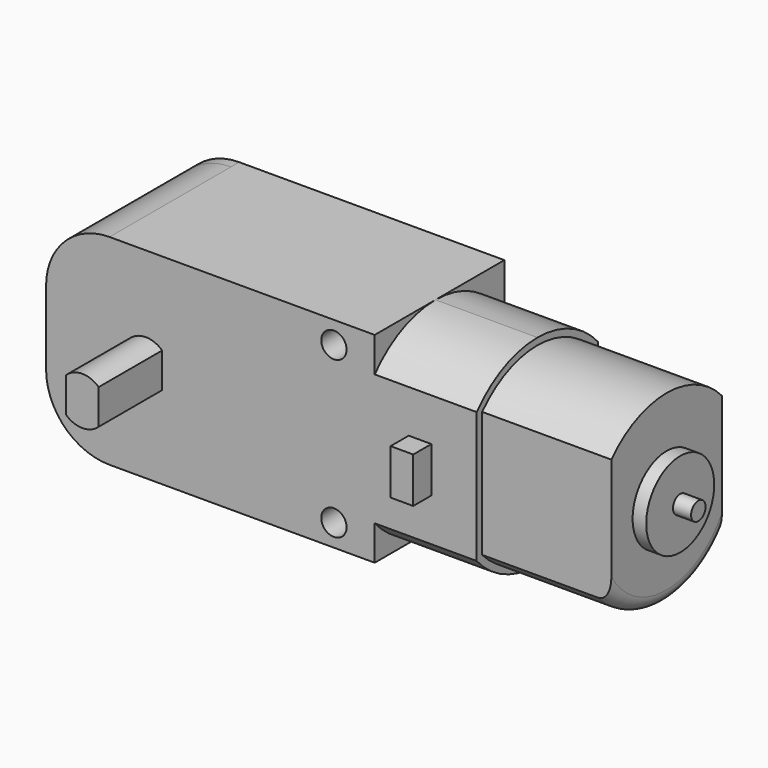
from build123d import *

# Parameters (mm, degrees)
F0_W      = 36.83
F0_H      = 17.018
F1_DEPTH  = 22.479
F2_R      = 7.112
F1_FACE_W = 17.018
F1_FACE_H = 8.255
F4_DEPTH  = 27.432
F6_DEPTH  = 16.002
F7_R      = 12.816169
F7_R_2    = 4.7625
F8_DEPTH  = 1.524
F9_R      = 1.524
F10_R     = 1.016
F11_DEPTH = 2.032
F12_W     = 2.54
F12_H     = 5.08
F13_DEPTH = 2.54
F15_DEPTH = 1.143
F16_W     = 2.54
F16_H     = 5.08
F17_DEPTH = 2.54
F19_DEPTH = 8.89
F21_DEPTH = 8.89
F22_R     = 1.324614
F23_DEPTH = 1.9558
F24_R     = 1.419753
F25_DEPTH = 25.4


with BuildPart() as f1:
    # F0 (on Top) → F1 (new body)
    with BuildSketch(Plane.XY):
        with Locations((0, -0.762)):
            Rectangle(F0_W, F0_H)
    extrude(amount=F1_DEPTH)

    # F2
    f2_edges = [f1.edges().sort_by_distance(p)[0] for p in [
        (-18.415, -0.762, 22.479),
        (-18.415, -0.762, 0),
    ]]
    fillet(f2_edges, radius=F2_R)

    # F3 (on face) + F1_face (on face) → F4 (join)
    with BuildSketch(Plane.YZ.offset(18.415)):
        with BuildLine():
            Line((-9.271, 18.582747), (-9.271, 3.896253))
            ThreePointArc((-9.271, 3.896253), (-5.441313, 1.020381), (-0.762, 0))
            ThreePointArc((-0.762, 0), (3.917313, 1.020381), (7.747, 3.896253))
            Line((7.747, 3.896253), (7.747, 18.582747))
            ThreePointArc((7.747, 18.582747), (3.917313, 21.458619), (-0.762, 22.479))
            ThreePointArc((-0.762, 22.479), (-5.441313, 21.458619), (-9.271, 18.582747))
        make_face()
    with BuildSketch(Plane(origin=(18.415, -0.762, 11.2395), x_dir=(0, 1, 0), z_dir=(1, 0, 0))):
        Rectangle(F1_FACE_W, F1_FACE_H)
    extrude(amount=F4_DEPTH)

    # F5 (on face) → F6 (cut)
    with BuildSketch(Plane.YZ.offset(45.847)):
        with BuildLine():
            ThreePointArc((13.335, 20.428588), (-0.762, 28.067), (-14.859, 20.428588))
            Line((-14.859, 20.428588), (-14.859, 2.050412))
            ThreePointArc((-14.859, 2.050412), (-0.762, -5.588), (13.335, 2.050412))
            Line((13.335, 2.050412), (13.335, 20.428588))
        make_face()
        with BuildLine():
            ThreePointArc((-9.271, 18.582747), (-0.762, 22.479), (7.747, 18.582747))
            Line((7.747, 18.582747), (7.747, 3.896253))
            ThreePointArc((7.747, 3.896253), (-0.762, 0), (-9.271, 3.896253))
            Line((-9.271, 3.896253), (-9.271, 18.582747))
        make_face(mode=Mode.SUBTRACT)
        with BuildLine():
            Line((7.747, 3.896253), (7.747, 18.582747))
            ThreePointArc((7.747, 18.582747), (-0.762, 22.479), (-9.271, 18.582747))
            Line((-9.271, 18.582747), (-9.271, 3.896253))
            ThreePointArc((-9.271, 3.896253), (-0.762, 0), (7.747, 3.896253))
        make_face()
        with BuildLine():
            Line((-8.509, 4.185282), (-8.509, 18.293718))
            ThreePointArc((-8.509, 18.293718), (-0.762, 21.717), (6.985, 18.293718))
            Line((6.985, 18.293718), (6.985, 4.185282))
            ThreePointArc((6.985, 4.185282), (-0.762, 0.762), (-8.509, 4.185282))
        make_face(mode=Mode.SUBTRACT)
    extrude(amount=-F6_DEPTH, mode=Mode.SUBTRACT)

    # F7 (on face) → F8 (cut)
    with BuildSketch(Plane.YZ.offset(45.847)):
        with Locations((-0.762, 11.2395)):
            Circle(F7_R)
        with BuildLine():
            ThreePointArc((6.985, 4.185282), (-0.762, 0.762), (-8.509, 4.185282))
            Line((-8.509, 4.185282), (-8.509, 18.293718))
            ThreePointArc((-8.509, 18.293718), (-0.762, 21.717), (6.985, 18.293718))
            Line((6.985, 18.293718), (6.985, 4.185282))
        make_face(mode=Mode.SUBTRACT)
        with BuildLine():
            Line((-8.509, 18.293718), (-8.509, 4.185282))
            ThreePointArc((-8.509, 4.185282), (-0.762, 0.762), (6.985, 4.185282))
            Line((6.985, 4.185282), (6.985, 18.293718))
            ThreePointArc((6.985, 18.293718), (-0.762, 21.717), (-8.509, 18.293718))
        make_face()
        with Locations((-0.762, 11.2395)):
            Circle(F7_R_2, mode=Mode.SUBTRACT)
    extrude(amount=-F8_DEPTH, mode=Mode.SUBTRACT)

    # F9
    f9_edges = [f1.edges().sort_by_distance(p)[0] for p in [
        (44.323, -0.762, 0.762),
    ]]
    fillet(f9_edges, radius=F9_R)

    # F10 (on face) → F11 (join)
    with BuildSketch(Plane.YZ.offset(45.847)):
        with Locations((-0.762, 11.2395)):
            Circle(F10_R)
    extrude(amount=F11_DEPTH)

    # F12 (on face) → F13 (join)
    with BuildSketch(Plane.XZ.offset(9.271)):
        with Locations((23.495, 11.2395)):
            Rectangle(F12_W, F12_H)
    extrude(amount=F13_DEPTH)

    # F14 (on face) → F15 (join)
    with BuildSketch(Plane(origin=(0, 7.747, 0), x_dir=(-1, 0, 0), z_dir=(0, 1, 0))):
        with BuildLine():
            Line((-18.415, 0), (11.303, 0))
            ThreePointArc((11.303, 0), (16.331943, 2.083057), (18.415, 7.112))
            Line((18.415, 7.112), (18.415, 15.367))
            ThreePointArc((18.415, 15.367), (16.331943, 20.395943), (11.303, 22.479))
            Line((11.303, 22.479), (-18.415, 22.479))
            Line((-18.415, 22.479), (-18.415, 18.582747))
            Line((-18.415, 18.582747), (-18.415, 3.896253))
            Line((-18.415, 3.896253), (-18.415, 0))
        make_face()
    extrude(amount=F15_DEPTH)

    # F16 (on face) → F17 (join)
    with BuildSketch(Plane(origin=(0, 7.747, 0), x_dir=(-1, 0, 0), z_dir=(0, 1, 0))):
        with Locations((-23.495, 11.2395)):
            Rectangle(F16_W, F16_H)
    extrude(amount=F17_DEPTH)

    # F18 (on face) → F19 (join)
    with BuildSketch(Plane.XZ.offset(9.271)):
        with BuildLine():
            Line((-5.4102, 9.280857), (-5.4102, 13.198143))
            ThreePointArc((-5.4102, 13.198143), (-7.239, 13.9192), (-9.0678, 13.198143))
            Line((-9.0678, 13.198143), (-9.0678, 9.280857))
            ThreePointArc((-9.0678, 9.280857), (-7.239, 8.5598), (-5.4102, 9.280857))
        make_face()
    extrude(amount=F19_DEPTH)

    # F20 (on face) → F21 (join)
    with BuildSketch(Plane(origin=(0, 8.89, 0), x_dir=(-1, 0, 0), z_dir=(0, 1, 0))):
        with BuildLine():
            Line((5.4102, 13.198143), (5.4102, 9.280857))
            ThreePointArc((5.4102, 9.280857), (7.239, 8.5598), (9.0678, 9.280857))
            Line((9.0678, 9.280857), (9.0678, 13.198143))
            ThreePointArc((9.0678, 13.198143), (7.239, 13.9192), (5.4102, 13.198143))
        make_face()
    extrude(amount=F21_DEPTH)

    # F22 (on face) → F23 (join)
    with BuildSketch(Plane(origin=(0, 8.89, 0), x_dir=(-1, 0, 0), z_dir=(0, 1, 0))):
        with Locations((-4.0386, 11.2395)):
            Circle(F22_R)
    extrude(amount=F23_DEPTH)

    # F24 (on face) → F25 (cut)
    with BuildSketch(Plane.XZ.offset(9.271)):
        with Locations((13.843, 20.0025)):
            Circle(F24_R)
        with Locations((13.843, 2.4765)):
            Circle(F24_R)
    extrude(amount=-F25_DEPTH, mode=Mode.SUBTRACT)


solid = f1.part
